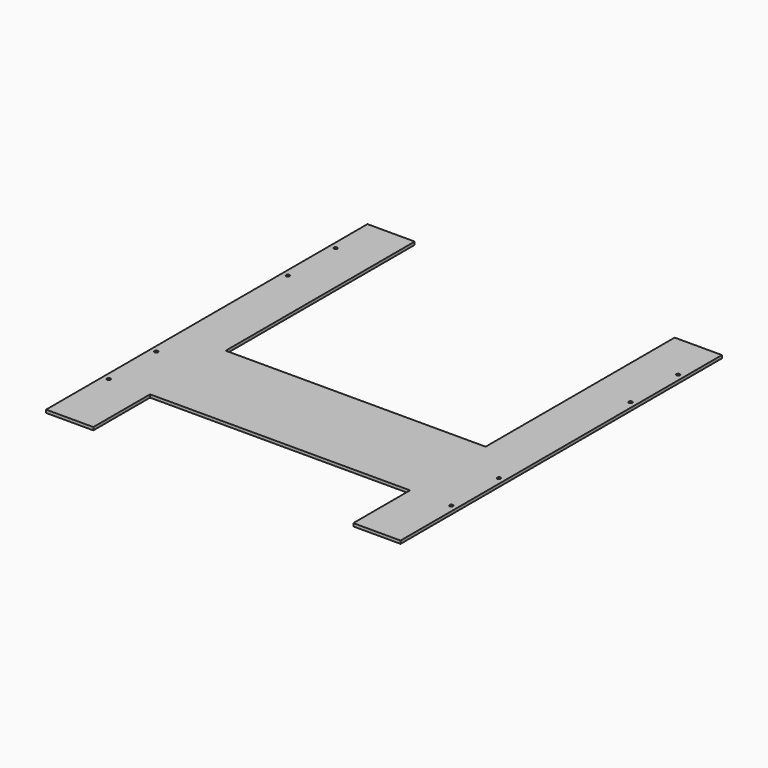
from build123d import *

# Parameters (mm, degrees)
F0_R     = 1.85
F1_DEPTH = 3.175


with BuildPart() as f1:
    # F0 (on Top) → F1 (new body)
    with BuildSketch(Plane.XY):
        Polygon((190.5, -215.9), (190.5, 215.9), (139.7, 215.9), (139.7, -38.1), (-139.7, -38.1), (-139.7, 215.9), (-190.5, 215.9), (-190.5, -215.9), (-139.7, -215.9), (-139.7, -139.7), (139.7, -139.7), (139.7, -215.9), align=None)
        with Locations((-184.15, -139.7)):
            Circle(F0_R, mode=Mode.SUBTRACT)
        with Locations((-184.15, -75.7)):
            Circle(F0_R, mode=Mode.SUBTRACT)
        with Locations((184.15, -139.7)):
            Circle(F0_R, mode=Mode.SUBTRACT)
        with Locations((184.15, -75.7)):
            Circle(F0_R, mode=Mode.SUBTRACT)
        with Locations((-184.15, 101.1)):
            Circle(F0_R, mode=Mode.SUBTRACT)
        with Locations((-184.15, 165.1)):
            Circle(F0_R, mode=Mode.SUBTRACT)
        with Locations((184.15, 101.1)):
            Circle(F0_R, mode=Mode.SUBTRACT)
        with Locations((184.15, 165.1)):
            Circle(F0_R, mode=Mode.SUBTRACT)
    extrude(amount=F1_DEPTH)


solid = f1.part
